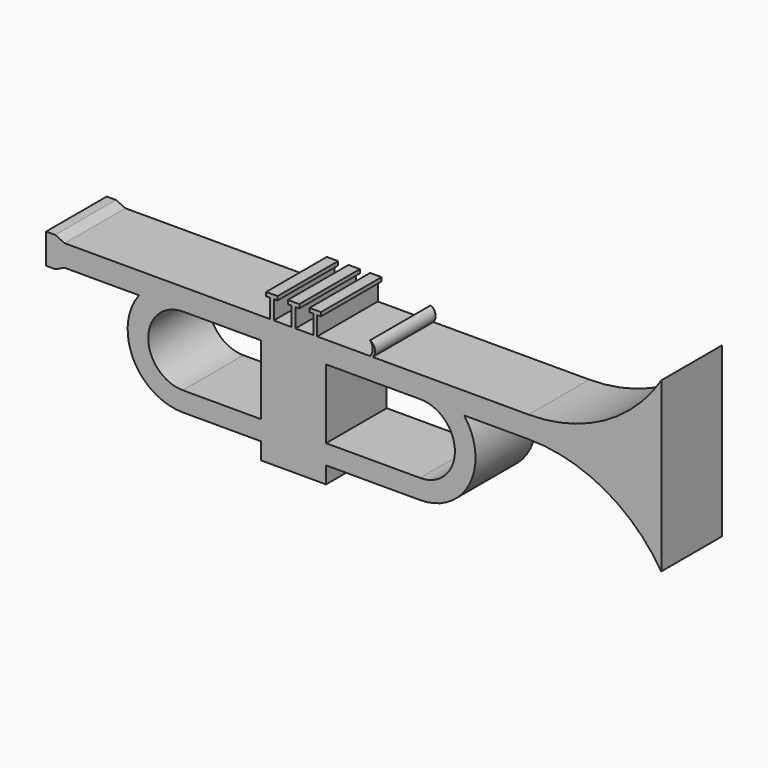
from build123d import *

# Parameters (mm, degrees)
F0_W     = 1.266345
F0_H     = 6.32021
F0_W_2   = 2.438912
F0_H_2   = 7.262094
F0_W_3   = 3.07266
F0_H_3   = 10.11271
F1_DEPTH = 25.4


with BuildPart() as f1:
    # F0 (on Front) → F1 (new body)
    with BuildSketch(Plane.XZ):
        with BuildLine():
            ThreePointArc((79.519914, 39.215297), (91.139261, 27.59595), (79.519914, 15.976603))
            Line((79.519914, 15.976603), (55.234976, 15.976603))
            Line((55.234976, 15.976603), (47.973033, 15.976603))
            Line((47.973033, 15.976603), (47.973033, 9.44072))
            Line((47.973033, 9.44072), (55.234976, 9.44072))
            Line((55.234976, 9.44072), (79.519914, 9.44072))
            ThreePointArc((79.519914, 9.44072), (96.123763, 19.758998), (94.224531, 39.215297))
            ThreePointArc((94.224531, 39.215297), (87.719972, 44.562904), (79.519914, 46.477391))
            Line((79.519914, 46.477391), (63.599461, 46.477391))
            Line((63.599461, 46.477391), (62.705725, 46.477391))
            Line((62.705725, 46.477391), (55.234976, 46.477391))
            Line((55.234976, 46.477391), (47.973033, 46.477391))
            Line((47.973033, 46.477391), (47.973033, 39.215297))
            Line((47.973033, 39.215297), (55.234976, 39.215297))
            Line((55.234976, 39.215297), (79.519914, 39.215297))
        make_face()
        Polygon((47.973033, 9.44072), (47.973033, 15.976603), (47.973033, 39.215297), (47.973033, 46.477391), (44.974909, 46.477391), (43.708564, 46.477391), (40.711089, 46.477391), (40.711089, 3.812549), (47.973033, 3.812549), align=None)
        with Locations((44.341736, 49.637496)):
            Rectangle(F0_W, F0_H)
        Polygon((33.449145, 3.812549), (40.711089, 3.812549), (40.711089, 46.477391), (37.713614, 46.477391), (36.447269, 46.477391), (33.449145, 46.477391), align=None)
        with BuildLine():
            ThreePointArc((62.705725, 51.111013), (63.599461, 48.794202), (62.705725, 46.477391))
            Line((62.705725, 46.477391), (63.599461, 46.477391))
            ThreePointArc((63.599461, 46.477391), (64.326918, 49.020706), (62.705725, 51.111013))
        make_face()
        Polygon((43.708564, 52.797601), (44.974909, 52.797601), (46.24451, 52.797601), (46.24451, 54.079618), (44.974909, 54.079618), (43.708564, 54.079618), (42.431599, 54.079618), (42.431599, 52.797601), align=None)
        Polygon((26.187202, 3.812549), (33.449145, 3.812549), (33.449145, 46.477391), (30.451022, 46.477391), (29.818174, 46.477391), (29.184677, 46.477391), (26.187202, 46.477391), (26.187202, 39.215297), (26.187202, 15.976603), (26.187202, 9.44072), align=None)
        with BuildLine():
            ThreePointArc((79.519914, 46.477391), (87.719972, 44.562904), (94.224531, 39.215297))
            Line((94.224531, 39.215297), (115.830371, 39.215297))
            ThreePointArc((115.830371, 39.215297), (141.221769, 32.667561), (160.280371, 14.657407))
            Line((160.280371, 14.657407), (160.280371, 39.215297))
            Line((160.280371, 39.215297), (160.280371, 42.846344))
            Line((160.280371, 42.846344), (160.280371, 46.477391))
            Line((160.280371, 46.477391), (160.280371, 57.156805))
            Line((160.280371, 57.156805), (160.280371, 71.035281))
            ThreePointArc((160.280371, 71.035281), (141.221769, 53.025126), (115.830371, 46.477391))
            Line((115.830371, 46.477391), (79.519914, 46.477391))
        make_face()
        with Locations((37.080441, 49.637496)):
            Rectangle(F0_W, F0_H)
        Polygon((36.447269, 52.797601), (37.713614, 52.797601), (38.990579, 52.797601), (38.990579, 54.079618), (37.713614, 54.079618), (36.447269, 54.079618), (35.177668, 54.079618), (35.177668, 52.797601), align=None)
        Polygon((29.818174, 46.477391), (30.451022, 46.477391), (30.451022, 52.797601), (29.184677, 52.797601), (29.184677, 46.477391), align=None)
        with BuildLine():
            Line((0, 9.44072), (26.187202, 9.44072))
            Line((26.187202, 9.44072), (26.187202, 15.976603))
            Line((26.187202, 15.976603), (0, 15.976603))
            ThreePointArc((0, 15.976603), (-11.619347, 27.59595), (0, 39.215297))
            Line((0, 39.215297), (26.187202, 39.215297))
            Line((26.187202, 39.215297), (26.187202, 46.477391))
            Line((26.187202, 46.477391), (0, 46.477391))
            ThreePointArc((0, 46.477391), (-8.200058, 44.562904), (-14.704617, 39.215297))
            ThreePointArc((-14.704617, 39.215297), (-16.603849, 19.758998), (0, 9.44072))
        make_face()
        Polygon((29.184677, 52.797601), (30.451022, 52.797601), (31.720623, 52.797601), (31.720623, 54.079618), (30.451022, 54.079618), (29.184677, 54.079618), (27.907712, 54.079618), (27.907712, 52.797601), align=None)
        with BuildLine():
            Line((-37.184769, 39.215297), (-14.704617, 39.215297))
            ThreePointArc((-14.704617, 39.215297), (-8.200058, 44.562904), (0, 46.477391))
            Line((0, 46.477391), (-37.184769, 46.477391))
            Line((-37.184769, 46.477391), (-37.184769, 39.215297))
        make_face()
        with Locations((-38.404225, 42.846344)):
            Rectangle(F0_W_2, F0_H_2)
        Polygon((-42.769502, 37.789989), (-39.623681, 39.215297), (-39.623681, 46.477391), (-42.769502, 47.902699), align=None)
        with Locations((-44.305832, 42.846344)):
            Rectangle(F0_W_3, F0_H_3)
    extrude(amount=F1_DEPTH)


solid = f1.part
